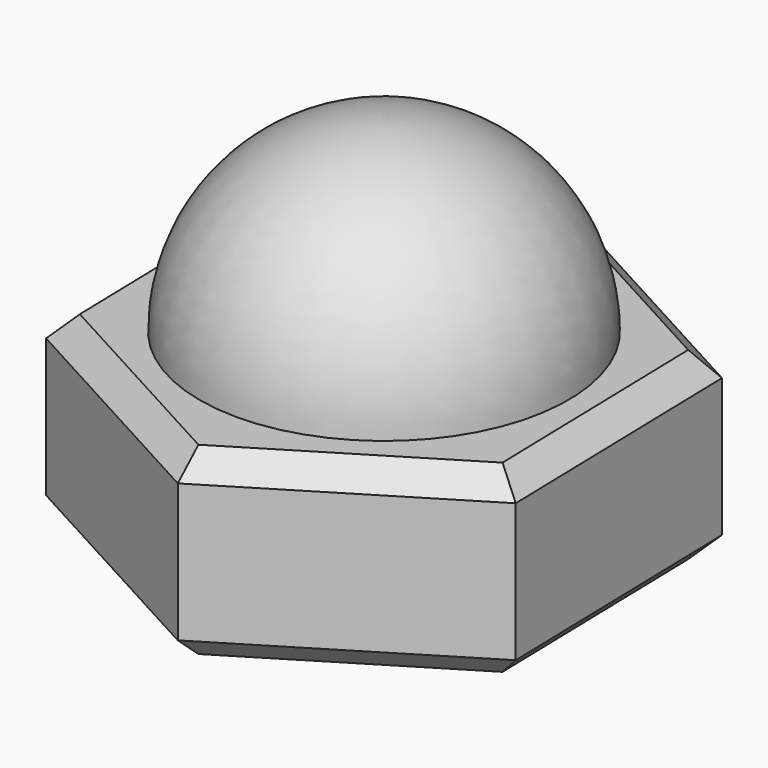
from build123d import *

# Parameters (mm, degrees)
F3_DEPTH = 4
F4_SIZE  = 0.5


with BuildPart() as f1:
    # F0 (on Right) → F1 (revolve)
    with BuildSketch(Plane.YZ):
        with BuildLine():
            Line((0, 0), (0, 4))
            ThreePointArc((0, 4), (-2.828427, 2.828427), (-4, 0))
            Line((-4, 0), (0, 0))
        make_face()
    revolve(axis=Axis((0, 0, 2), (0, 0, -1)))

    # F2 (on face) → F3 (join)
    with BuildSketch(Plane(origin=(0, 0, 0), x_dir=(1, 0, 0), z_dir=(0, 0, -1))):
        Polygon((-0.142033, -5.773503), (4.928983, -3.009756), (5.071017, 2.763747), (0.142033, 5.773503), (-4.928983, 3.009756), (-5.071017, -2.763747), align=None)
    extrude(amount=F3_DEPTH)

    # F4
    f4_edges = [f1.edges().sort_by_distance(p)[0] for p in [
        (2.606525, -4.268625, 0),
        (5, 0.123005, 0),
        (2.393475, 4.391629, 0),
        (2.606525, -4.268625, -4),
        (-2.393475, -4.391629, -4),
        (-2.393475, -4.391629, 0),
        (-2.606525, 4.268625, 0),
        (-5, -0.123005, 0),
        (2.393475, 4.391629, -4),
        (-2.606525, 4.268625, -4),
        (5, 0.123005, -4),
        (-5, -0.123005, -4),
    ]]
    chamfer(f4_edges, length=F4_SIZE)


solid = f1.part
